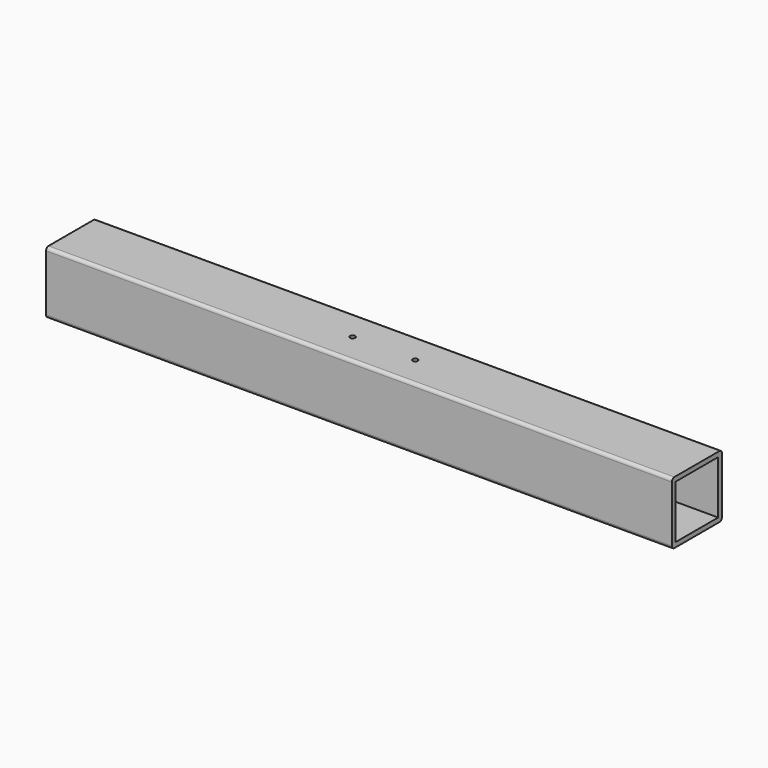
from build123d import *

# Parameters (mm, degrees)
SKETCH_W    = 34
SKETCH_H    = 34
PAD_DEPTH   = 400
SKETCH001_R = 1.65
HOLE_DEPTH  = 25
HOLE_TIPS_R = 1.65


with BuildPart() as part:
    # Sketch → Pad (new body)
    with BuildSketch(Plane.YZ):
        with BuildLine():
            Line((2, 0), (38, 0))
            ThreePointArc((38, 0), (39.414214, 0.585786), (40, 2))
            Line((40, 2), (40, 38))
            ThreePointArc((40, 38), (39.414214, 39.414214), (38, 40))
            Line((38, 40), (2, 40))
            ThreePointArc((2, 40), (0.585786, 39.414214), (0, 38))
            Line((0, 38), (0, 2))
            ThreePointArc((0, 2), (0.585786, 0.585786), (2, 0))
        make_face()
        with Locations((20, 20)):
            Rectangle(SKETCH_W, SKETCH_H, mode=Mode.SUBTRACT)
    extrude(amount=PAD_DEPTH)

    # Sketch001 (on Face5 of Pad) → Hole (cut)
    with BuildSketch(Plane(origin=(0, 0, 40), x_dir=(0, -1, 0), z_dir=(0, 0, 1))):
        with Locations((-20, 180)):
            Circle(SKETCH001_R)
        with Locations((-20, 220)):
            Circle(SKETCH001_R)
    extrude(amount=-HOLE_DEPTH, mode=Mode.SUBTRACT)

    # Hole tips → Hole tip 1 section 0
    with BuildSketch(Plane(origin=(0, 0, 15), x_dir=(0, -1, 0), z_dir=(0, 0, 1)), mode=Mode.PRIVATE) as hole_tip_1_s0:
        with Locations((-20, 180)):
            Circle(HOLE_TIPS_R)
    loft([hole_tip_1_s0.sketch, Vertex(180, 20, 14.00858)], mode=Mode.SUBTRACT)

    # Hole tips → Hole tip 2 section 0
    with BuildSketch(Plane(origin=(0, 0, 15), x_dir=(0, -1, 0), z_dir=(0, 0, 1)), mode=Mode.PRIVATE) as hole_tip_2_s0:
        with Locations((-20, 220)):
            Circle(HOLE_TIPS_R)
    loft([hole_tip_2_s0.sketch, Vertex(220, 20, 14.00858)], mode=Mode.SUBTRACT)


solid = part.part
